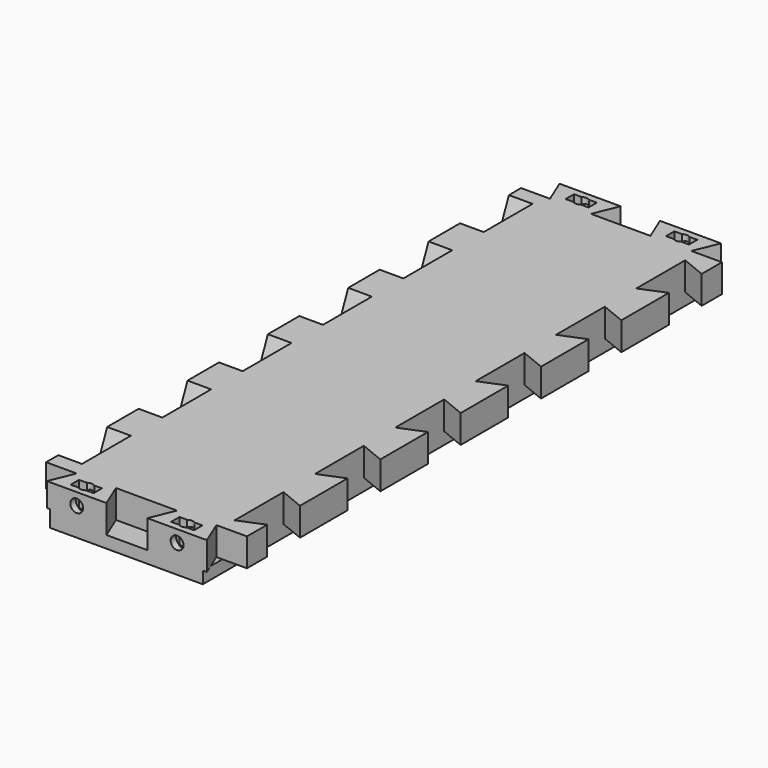
from build123d import *

# Parameters (mm, degrees)
SKETCH_W        = 50
SKETCH_H        = 160
PAD_DEPTH       = 10
POCKET_DEPTH    = 7
SKETCH003_R     = 1.6
POCKET002_DEPTH = 10
POCKET003_DEPTH = 10
SKETCH005_W     = 6.1
SKETCH005_H     = 160
POCKET004_DEPTH = 3
POCKET005_DEPTH = 5.9
SKETCH007_W     = 160
SKETCH007_H     = 4.1
POCKET006_DEPTH = 5.9
SKETCH008_W     = 30
SKETCH008_H     = 140
POCKET007_DEPTH = 7
SKETCH009_W     = 5.7
SKETCH009_H     = 2.6
POCKET008_DEPTH = 6.15
SKETCH010_R     = 1.6
POCKET009_DEPTH = 10
SKETCH011_R     = 1.6
POCKET010_DEPTH = 10


with BuildPart() as part:
    # Sketch → Pad (new body)
    with BuildSketch(Plane.XY):
        with Locations((25, 80)):
            Rectangle(SKETCH_W, SKETCH_H)
    extrude(amount=PAD_DEPTH)

    # Sketch001 (on Face6 of Pad) → Pocket (cut)
    with BuildSketch(Plane.XY.offset(10)):
        Polygon((17.4, 6.1), (32.6, 6.1), (30.1, 0), (19.9, 0), align=None)
        Polygon((42.4, 6.1), (57.6, 6.1), (55.1, 0), (44.9, 0), align=None)
        Polygon((-7.6, 6.1), (7.6, 6.1), (5.1, 0), (-5.1, 0), align=None)
        Polygon((32.2, 153.9), (17.4, 153.9), (19.9, 160), (29.7, 160), align=None)
        Polygon((7.2, 153.9), (-7.6, 153.9), (-5.1, 160), (4.7, 160), align=None)
        Polygon((57.2, 153.9), (42.4, 153.9), (44.9, 160), (54.7, 160), align=None)
    extrude(amount=-POCKET_DEPTH, mode=Mode.SUBTRACT)

    # Sketch003 → Pocket002 (cut)
    with BuildSketch(Plane.XY.offset(10)):
        with Locations((12.5, 157)):
            Circle(SKETCH003_R)
        with Locations((37.5, 157)):
            Circle(SKETCH003_R)
        with Locations((12.5, 3)):
            Circle(SKETCH003_R)
        with Locations((37.5, 3)):
            Circle(SKETCH003_R)
    extrude(amount=-POCKET002_DEPTH, mode=Mode.SUBTRACT)

    # Sketch004 (on Face2 of Pocket002) → Pocket003 (cut)
    with BuildSketch(Plane(origin=(0, 0, 0), x_dir=(1, 0, 0), z_dir=(0, 0, -1))):
        Polygon((43.9, -84.9), (43.9, -100.1), (50, -97.6), (50, -87.4), align=None)
        Polygon((43.9, -59.9), (43.9, -75.1), (50, -72.6), (50, -62.4), align=None)
        Polygon((43.9, -34.9), (43.9, -50.1), (50, -47.6), (50, -37.4), align=None)
        Polygon((43.9, -9.9), (43.9, -25.1), (50, -22.6), (50, -12.4), align=None)
        Polygon((43.9, -134.9), (43.9, -150.1), (50, -147.6), (50, -137.4), align=None)
        Polygon((43.9, -109.9), (43.9, -125.1), (50, -122.6), (50, -112.4), align=None)
    extrude(amount=-POCKET003_DEPTH, mode=Mode.SUBTRACT)

    # Sketch005 (on Face2 of Pocket003) → Pocket004 (cut)
    with BuildSketch(Plane(origin=(0, 0, 0), x_dir=(1, 0, 0), z_dir=(0, 0, -1))):
        with Locations((46.95, -80)):
            Rectangle(SKETCH005_W, SKETCH005_H)
    extrude(amount=-POCKET004_DEPTH, mode=Mode.SUBTRACT)

    # Sketch006 (on Face12 of Pocket004) → Pocket005 (cut)
    with BuildSketch(Plane(origin=(0, 0, 0), x_dir=(0, -1, 0), z_dir=(-1, 0, 0))):
        Polygon((-100.1, 10), (-84.9, 10), (-87.4, 4.1), (-97.6, 4.1), align=None)
        Polygon((-75.1, 10), (-59.9, 10), (-62.4, 4.1), (-72.6, 4.1), align=None)
        Polygon((-150.1, 10), (-134.9, 10), (-137.4, 4.1), (-147.6, 4.1), align=None)
        Polygon((-125.1, 10), (-109.9, 10), (-112.4, 4.1), (-122.6, 4.1), align=None)
        Polygon((-50.1, 10), (-34.9, 10), (-37.4, 4.1), (-47.6, 4.1), align=None)
        Polygon((-25.1, 10), (-9.9, 10), (-12.4, 4.1), (-22.6, 4.1), align=None)
    extrude(amount=-POCKET005_DEPTH, mode=Mode.SUBTRACT)

    # Sketch007 (on Face12 of Pocket005) → Pocket006 (cut)
    with BuildSketch(Plane(origin=(0, 0, 0), x_dir=(0, -1, 0), z_dir=(-1, 0, 0))):
        with Locations((-80, 2.05)):
            Rectangle(SKETCH007_W, SKETCH007_H)
    extrude(amount=-POCKET006_DEPTH, mode=Mode.SUBTRACT)

    # Sketch008 (on Face2 of Pocket006) → Pocket007 (cut)
    with BuildSketch(Plane(origin=(0, 0, 0), x_dir=(1, 0, 0), z_dir=(0, 0, -1))):
        with Locations((25, -80)):
            Rectangle(SKETCH008_W, SKETCH008_H)
    extrude(amount=-POCKET007_DEPTH, mode=Mode.SUBTRACT)

    # Sketch009 (on Face6 of Pocket007) → Pocket008 (cut)
    with BuildSketch(Plane.XY.offset(10)):
        with Locations((12.5, 157)):
            Rectangle(SKETCH009_W, SKETCH009_H)
        with Locations((37.5, 157)):
            Rectangle(SKETCH009_W, SKETCH009_H)
        with Locations((12.5, 3)):
            Rectangle(SKETCH009_W, SKETCH009_H)
        with Locations((37.5, 3)):
            Rectangle(SKETCH009_W, SKETCH009_H)
    extrude(amount=-POCKET008_DEPTH, mode=Mode.SUBTRACT)

    # Sketch010 (on Face15 of Pocket008) → Pocket009 (cut)
    with BuildSketch(Plane.XZ):
        with Locations((12.5, 7)):
            Circle(SKETCH010_R)
        with Locations((37.5, 7)):
            Circle(SKETCH010_R)
    extrude(amount=-POCKET009_DEPTH, mode=Mode.SUBTRACT)

    # Sketch011 (on Face1 of Pocket009) → Pocket010 (cut)
    with BuildSketch(Plane(origin=(0, 160, 0), x_dir=(-1, 0, 0), z_dir=(0, 1, 0))):
        with Locations((-37.5, 7)):
            Circle(SKETCH011_R)
        with Locations((-12.5, 7)):
            Circle(SKETCH011_R)
    extrude(amount=-POCKET010_DEPTH, mode=Mode.SUBTRACT)


solid = part.part
